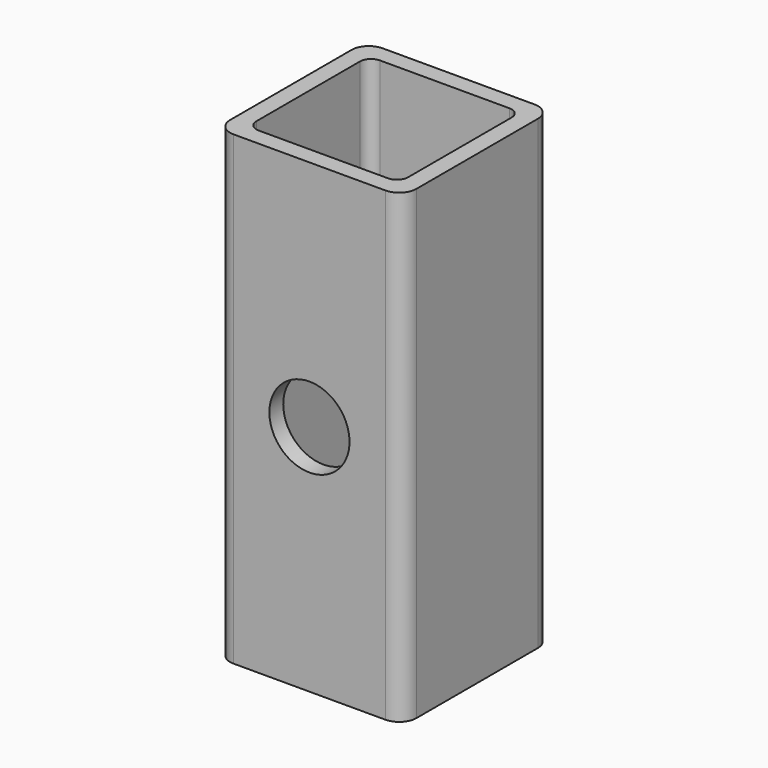
from build123d import *

# Parameters (mm, degrees)
F1_DEPTH = 63.5
F3_D     = 10.922


with BuildPart() as f1:
    # F0 (on Top) → F1 (new body)
    with BuildSketch(Plane.XY):
        with BuildLine():
            ThreePointArc((-10.3378, 12.7), (-12.008128, 12.008128), (-12.7, 10.3378))
            Line((-12.7, 10.3378), (-12.7, -10.3378))
            ThreePointArc((-12.7, -10.3378), (-12.008128, -12.008128), (-10.3378, -12.7))
            Line((-10.3378, -12.7), (10.3378, -12.7))
            ThreePointArc((10.3378, -12.7), (12.008128, -12.008128), (12.7, -10.3378))
            Line((12.7, -10.3378), (12.7, 10.3378))
            ThreePointArc((12.7, 10.3378), (12.008128, 12.008128), (10.3378, 12.7))
            Line((10.3378, 12.7), (-10.3378, 12.7))
        make_face()
        with BuildLine():
            Line((-8.8138, 10.3378), (8.8138, 10.3378))
            ThreePointArc((8.8138, 10.3378), (9.891431, 9.891431), (10.3378, 8.8138))
            Line((10.3378, 8.8138), (10.3378, -8.8138))
            ThreePointArc((10.3378, -8.8138), (9.891431, -9.891431), (8.8138, -10.3378))
            Line((8.8138, -10.3378), (-8.8138, -10.3378))
            ThreePointArc((-8.8138, -10.3378), (-9.891431, -9.891431), (-10.3378, -8.8138))
            Line((-10.3378, -8.8138), (-10.3378, 8.8138))
            ThreePointArc((-10.3378, 8.8138), (-9.891431, 9.891431), (-8.8138, 10.3378))
        make_face(mode=Mode.SUBTRACT)
    extrude(amount=F1_DEPTH)

    # F3 (through all)
    with Locations(Plane.XZ.offset(12.7)):
        with Locations((0, 31.75)):
            Hole(F3_D / 2)


solid = f1.part
